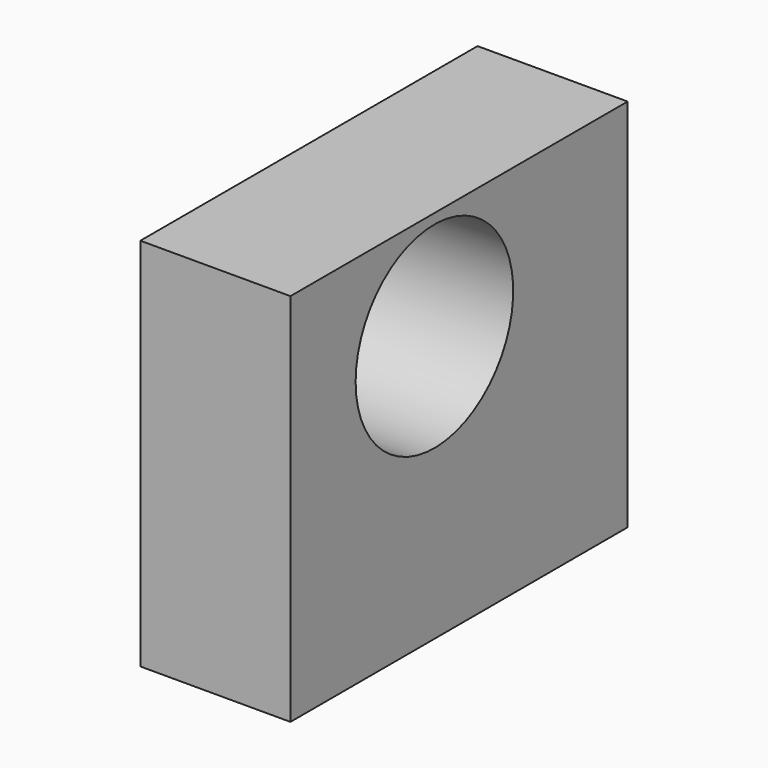
from build123d import *

# Parameters (mm, degrees)
F0_W     = 71.330417
F0_H     = 63.439883
F1_DEPTH = 25.4
F2_R     = 16.668128
F3_DEPTH = 25.4


with BuildPart() as f1:
    # F0 (on Right) → F1 (new body)
    with BuildSketch(Plane.YZ):
        with Locations((5.207752, 6.785859)):
            Rectangle(F0_W, F0_H)
    extrude(amount=F1_DEPTH)

    # F2 (on face) → F3 (cut)
    with BuildSketch(Plane(origin=(0, 0, 0), x_dir=(0, -1, 0), z_dir=(-1, 0, 0))):
        with Locations((0, 20.146929)):
            Circle(F2_R)
    extrude(amount=-F3_DEPTH, mode=Mode.SUBTRACT)


solid = f1.part
